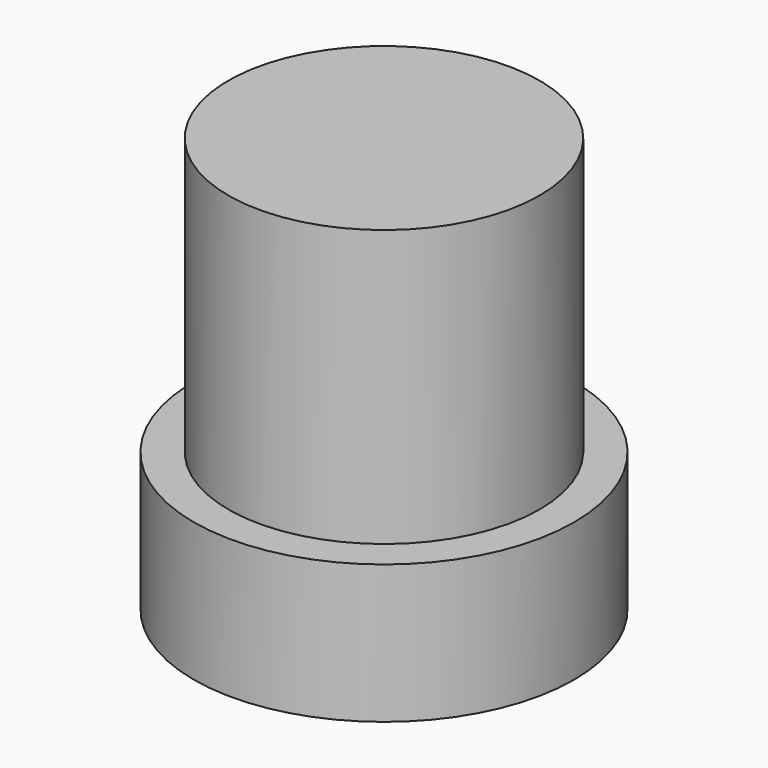
from build123d import *

# Parameters (mm, degrees)
F0_R          = 14.2875
F1_DEPTH      = 25.4
F0_R_2        = 17.4625
F2_DEPTH      = 12.7
F2_DEPTH_BACK = 0.0254


with BuildPart() as f1:
    # F0 (on Top) → F1 (new body)
    with BuildSketch(Plane.XY):
        Circle(F0_R)
    extrude(amount=F1_DEPTH)

    # F0 (on Top) → F2 (join, two sides)
    with BuildSketch(Plane.XY) as f2_sk:
        Circle(F0_R_2)
        Circle(F0_R, mode=Mode.SUBTRACT)
    extrude(amount=-F2_DEPTH)
    extrude(f2_sk.sketch, amount=F2_DEPTH_BACK)


solid = f1.part
